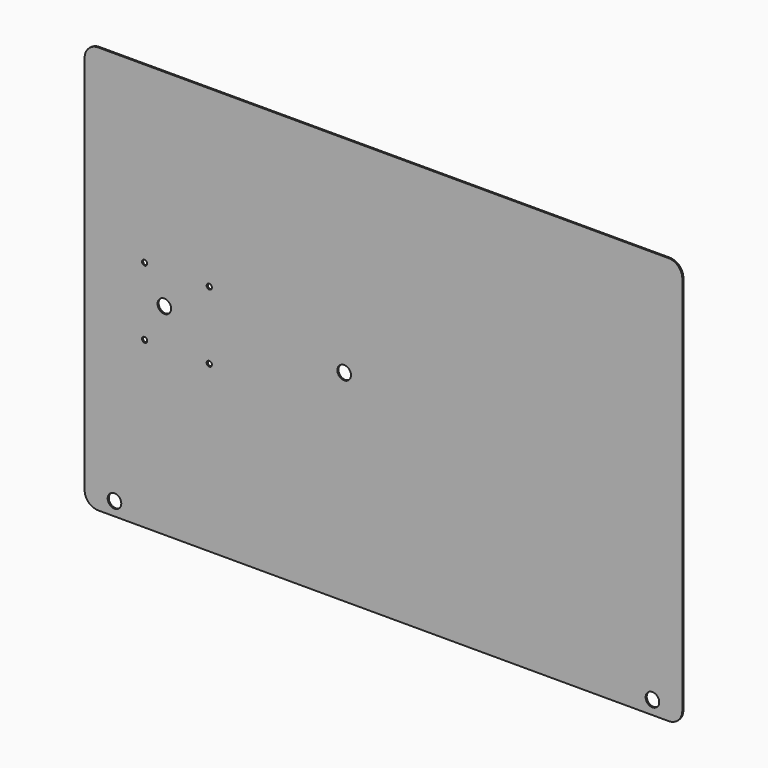
from build123d import *

# Parameters (mm, degrees)
F0_R     = 6.35
F0_R_2   = 2.4511
F1_DEPTH = 1.27


with BuildPart() as f1:
    # F0 (on Front) → F1 (new body)
    with BuildSketch(Plane.XZ):
        with BuildLine():
            ThreePointArc((-61.824198, 192.873171), (-70.804454, 189.153427), (-74.524198, 180.173171))
            Line((-74.524198, 180.173171), (-74.524198, -175.426829))
            ThreePointArc((-74.524198, -175.426829), (-70.804454, -184.407085), (-61.824198, -188.126829))
            Line((-61.824198, -188.126829), (471.575802, -188.126829))
            ThreePointArc((471.575802, -188.126829), (480.556058, -184.407085), (484.275802, -175.426829))
            Line((484.275802, -175.426829), (484.275802, 180.173171))
            ThreePointArc((484.275802, 180.173171), (480.556058, 189.153427), (471.575802, 192.873171))
            Line((471.575802, 192.873171), (-61.824198, 192.873171))
        make_face()
        with Locations((-46.584198, -175.426829)):
            Circle(F0_R, mode=Mode.SUBTRACT)
        with Locations((-18.415, -33.655)):
            Circle(F0_R_2, mode=Mode.SUBTRACT)
        with Locations((42.037, -33.655)):
            Circle(F0_R_2, mode=Mode.SUBTRACT)
        Circle(F0_R, mode=Mode.SUBTRACT)
        with Locations((168.148, 0)):
            Circle(F0_R, mode=Mode.SUBTRACT)
        with Locations((456.335802, -175.426829)):
            Circle(F0_R, mode=Mode.SUBTRACT)
        with Locations((-18.415, 29.845)):
            Circle(F0_R_2, mode=Mode.SUBTRACT)
        with Locations((42.037, 29.845)):
            Circle(F0_R_2, mode=Mode.SUBTRACT)
    extrude(amount=F1_DEPTH)


solid = f1.part
